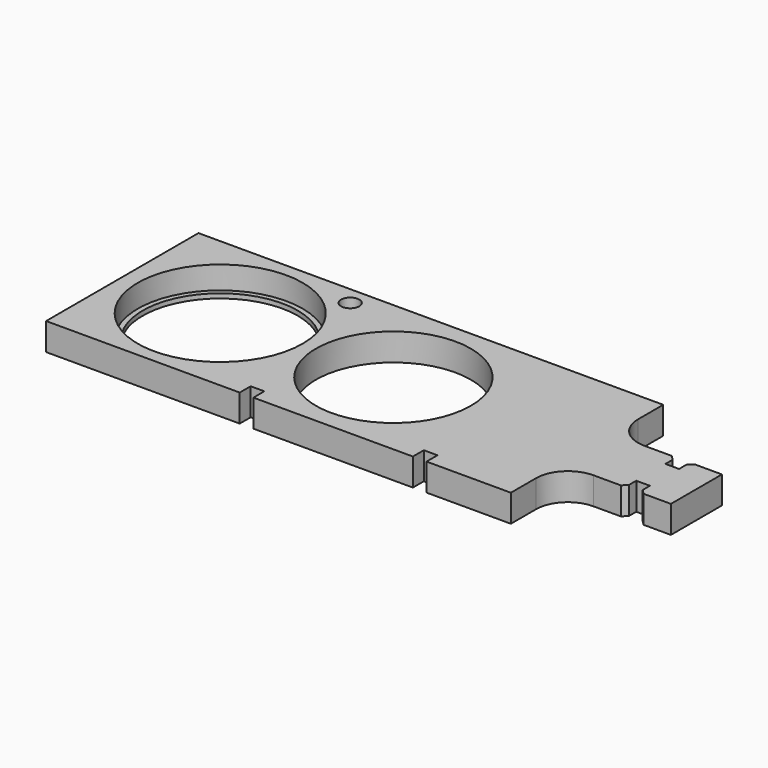
from build123d import *

# Parameters (mm, degrees)
F0_R     = 8.5
F0_R_2   = 1
F1_DEPTH = 3
F2_R     = 9.05
F3_DEPTH = 2.5
F4_W     = 1.5
F4_H     = 1.5
F5_DEPTH = 3
F6_SIZE  = 0.5


with BuildPart() as f1:
    # F0 (on Top) → F1 (new body)
    with BuildSketch(Plane.XY):
        with BuildLine():
            Line((20.3929555267, 13.1650441562), (-30.6070444733, 13.1650441562))
            Line((-30.6070444733, 13.1650441562), (-30.6070444733, -7.7349558438))
            Line((-30.6070444733, -7.7349558438), (-9.3570444733, -7.7349558438))
            Line((-9.3570444733, -7.7349558438), (-9.3570444733, -6.2349558438))
            Line((-9.3570444733, -6.2349558438), (-7.8570444733, -6.2349558438))
            Line((-7.8570444733, -6.2349558438), (-7.8570444733, -7.7349558438))
            Line((-7.8570444733, -7.7349558438), (9.6429555267, -7.7349558438))
            Line((9.6429555267, -7.7349558438), (9.6429555267, -6.2349558438))
            Line((9.6429555267, -6.2349558438), (11.1429555267, -6.2349558438))
            Line((11.1429555267, -6.2349558438), (11.1429555267, -7.7349558438))
            Line((11.1429555267, -7.7349558438), (20.3929555267, -7.7349558438))
            Line((20.3929555267, -7.7349558438), (20.3929555267, -4.2849558438))
            ThreePointArc((20.3929555267, -4.2849558438), (21.4180817926, -1.8100821097), (23.8929555267, -0.7849558438))
            Line((23.8929555267, -0.7849558438), (32.3929555267, -0.7849558438))
            Line((32.3929555267, -0.7849558438), (32.3929555267, 6.2150441562))
            Line((32.3929555267, 6.2150441562), (23.8929555267, 6.2150441562))
            ThreePointArc((23.8929555267, 6.2150441562), (21.4180817926, 7.240170422), (20.3929555267, 9.7150441562))
            Line((20.3929555267, 9.7150441562), (20.3929555267, 13.1650441562))
        make_face()
        with Locations((-0.8570444733, 2.7150441562)):
            Circle(F0_R, mode=Mode.SUBTRACT)
        with Locations((-19.8570444733, 2.7150441562)):
            Circle(F0_R, mode=Mode.SUBTRACT)
        with Locations((-12.3570444733, 11.1650441562)):
            Circle(F0_R_2, mode=Mode.SUBTRACT)
    extrude(amount=F1_DEPTH)

    # F2 (on face) → F3 (cut)
    with BuildSketch(Plane.XY.offset(3)):
        with Locations((-19.8570444733, 2.7150441562)):
            Circle(F2_R)
    extrude(amount=-F3_DEPTH, mode=Mode.SUBTRACT)

    # F4 (on face) → F5 (cut)
    with BuildSketch(Plane.XY.offset(3)):
        with Locations((28.1429555267, -0.0349558438)):
            Rectangle(F4_W, F4_H)
        with Locations((28.1429555267, 5.4650441562)):
            Rectangle(F4_W, F4_H)
    extrude(amount=-F5_DEPTH, mode=Mode.SUBTRACT)

    # F6
    f6_edges = [f1.edges().sort_by_distance(p)[0] for p in [
        (27.392956, -0.784956, 1.5),
        (28.892956, -0.784956, 1.5),
        (28.892956, 6.215044, 1.5),
        (27.392956, 6.215044, 1.5),
    ]]
    chamfer(f6_edges, length=F6_SIZE)


solid = f1.part
